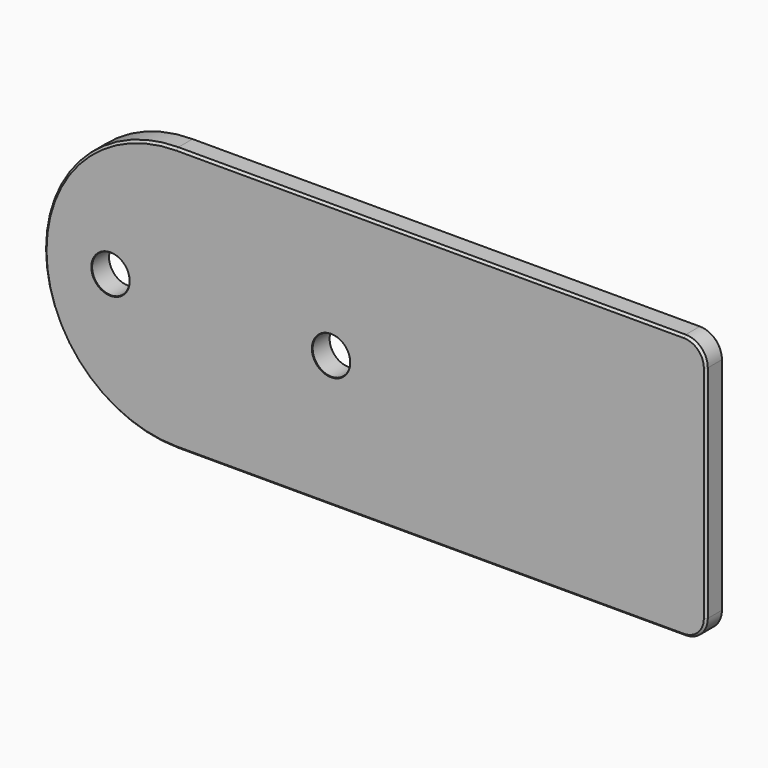
from build123d import *

# Parameters (mm, degrees)
F0_R     = 4.25
F1_DEPTH = 2.5
F2_R     = 5
F3_SIZE  = 0.5
F4_SIZE  = 0.1


with BuildPart() as f1:
    # F0 (on Front) → F1 (new body, symmetric)
    with BuildSketch(Plane.XZ):
        with BuildLine():
            Line((75, -30), (75, 30))
            Line((75, 30), (-45, 30))
            ThreePointArc((-45, 30), (-75, 0), (-45, -30))
            Line((-45, -30), (75, -30))
        make_face()
        with Locations((-60, 0)):
            Circle(F0_R, mode=Mode.SUBTRACT)
        with Locations((-10, 0)):
            Circle(F0_R, mode=Mode.SUBTRACT)
    extrude(amount=F1_DEPTH, both=True)

    # F2
    f2_edges = [f1.edges().sort_by_distance(p)[0] for p in [
        (75, 0, -30),
        (75, 0, 30),
    ]]
    fillet(f2_edges, radius=F2_R)

    # F3
    f3_edges = [f1.edges().sort_by_distance(p)[0] for p in [
        (12.5, -2.5, -30),
        (12.5, 2.5, 30),
    ]]
    chamfer(f3_edges, length=F3_SIZE)

    # F4
    f4_edges = [f1.edges().sort_by_distance(p)[0] for p in [
        (-14.25, 2.5, 0),
        (-64.25, 2.5, 0),
        (-64.25, -2.5, 0),
        (-14.25, -2.5, 0),
    ]]
    chamfer(f4_edges, length=F4_SIZE)


solid = f1.part
